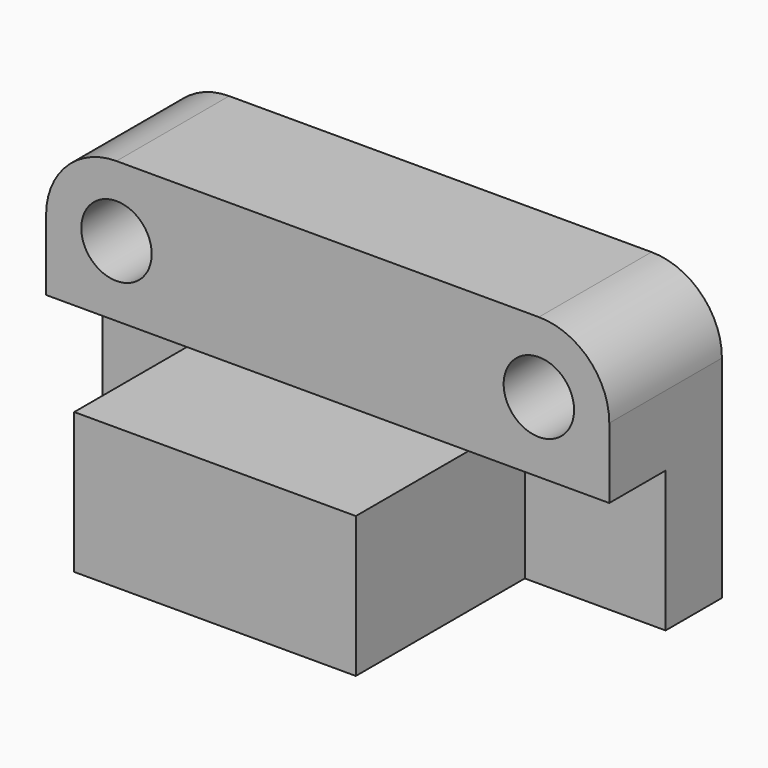
from build123d import *

# Parameters (mm, degrees)
F0_W      = 101.6
F0_H      = 50.8
F1_DEPTH  = 76.2
F2_W      = 25.4
F2_H      = 50.8
F3_DEPTH  = 152.4
F4_W      = 25.4
F4_H      = 50.8
F5_DEPTH  = 50.8
F6_W      = 50.8
F6_H      = 25.4
F7_DEPTH  = 50.8
F8_R      = 25.4
F9_R      = 12.7
F10_DEPTH = 50.8
F11_R     = 12.7
F12_DEPTH = 50.8


with BuildPart() as f1:
    # F0 (on Front) → F1 (new body)
    with BuildSketch(Plane.XZ):
        with Locations((-50.8, 25.4)):
            Rectangle(F0_W, F0_H)
    extrude(amount=F1_DEPTH)

    # F2 (on face) → F3 (join)
    with BuildSketch(Plane.YZ):
        with Locations((12.7, 25.4)):
            Rectangle(F2_W, F2_H)
    extrude(amount=-F3_DEPTH)

    # F4 (on face) → F5 (join)
    with BuildSketch(Plane.YZ):
        with Locations((12.7, 25.4)):
            Rectangle(F4_W, F4_H)
    extrude(amount=F5_DEPTH)

    # F6 (on face) → F7 (join)
    with BuildSketch(Plane.XY.offset(50.8)):
        with Locations((25.4, -12.7)):
            Rectangle(F6_W, F6_H)
        with Locations((-127, -12.7)):
            Rectangle(F6_W, F6_H)
        Polygon((50.8, 25.4), (-152.4, 25.4), (-152.4, 0), (-101.6, 0), (-101.6, -25.4), (0, -25.4), (0, 0), (50.8, 0), align=None)
    extrude(amount=F7_DEPTH)

    # F8
    f8_edges = [f1.edges().sort_by_distance(p)[0] for p in [
        (50.8, 0, 101.6),
        (-152.4, 0, 101.6),
    ]]
    fillet(f8_edges, radius=F8_R)

    # F9 (on face) → F10 (cut)
    with BuildSketch(Plane.XZ.offset(25.4)):
        with Locations((-127, 76.2)):
            Circle(F9_R)
    extrude(amount=-F10_DEPTH, mode=Mode.SUBTRACT)

    # F11 (on face) → F12 (cut)
    with BuildSketch(Plane.XZ.offset(25.4)):
        with Locations((25.4, 76.2)):
            Circle(F11_R)
    extrude(amount=-F12_DEPTH, mode=Mode.SUBTRACT)


solid = f1.part
